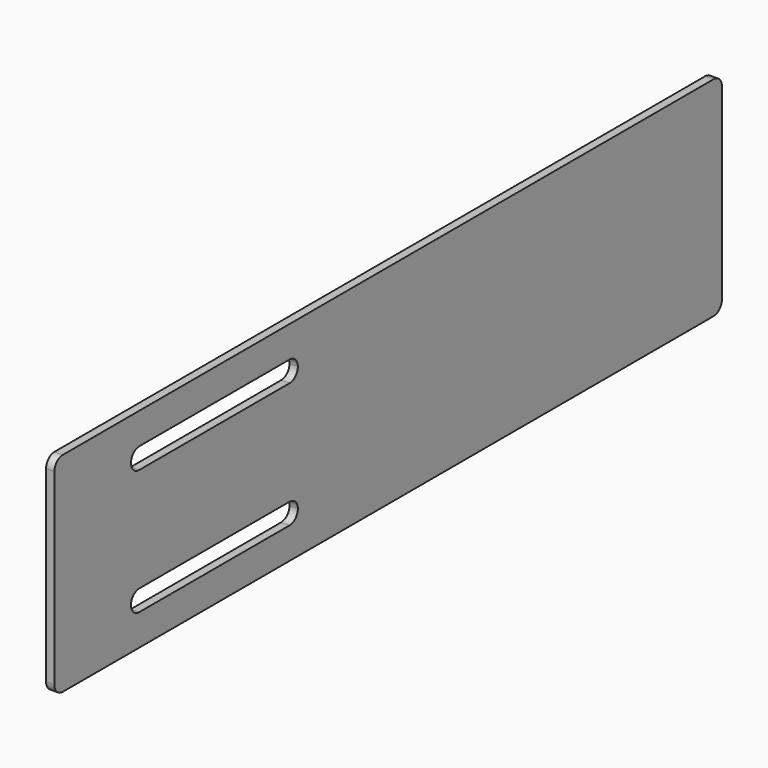
from build123d import *

# Parameters (mm, degrees)
F1_DEPTH = 4
F3_DEPTH = 25


with BuildPart() as f1:
    # F0 (on Right) → F1 (new body)
    with BuildSketch(Plane.YZ):
        with BuildLine():
            Line((205.688918, 31.737779), (-184.311082, 31.737779))
            ThreePointArc((-184.311082, 31.737779), (-187.846616, 30.273313), (-189.311082, 26.737779))
            Line((-189.311082, 26.737779), (-189.311082, -63.262221))
            ThreePointArc((-189.311082, -63.262221), (-187.846616, -66.797755), (-184.311082, -68.262221))
            Line((-184.311082, -68.262221), (205.688918, -68.262221))
            ThreePointArc((205.688918, -68.262221), (209.224452, -66.797755), (210.688918, -63.262221))
            Line((210.688918, -63.262221), (210.688918, 26.737779))
            ThreePointArc((210.688918, 26.737779), (209.224452, 30.273313), (205.688918, 31.737779))
        make_face()
    extrude(amount=F1_DEPTH)

    # F2 (on Right) → F3 (cut)
    with BuildSketch(Plane.YZ):
        with BuildLine():
            Line((-48.437826, 16.737779), (-138.437826, 16.737779))
            ThreePointArc((-138.437826, 16.737779), (-141.973359, 15.273313), (-143.437826, 11.737779))
            ThreePointArc((-143.437826, 11.737779), (-141.973359, 8.202245), (-138.437826, 6.737779))
            Line((-138.437826, 6.737779), (-48.437826, 6.737779))
            ThreePointArc((-48.437826, 6.737779), (-44.902292, 8.202245), (-43.437826, 11.737779))
            ThreePointArc((-43.437826, 11.737779), (-44.902292, 15.273313), (-48.437826, 16.737779))
        make_face()
        with BuildLine():
            Line((-48.437826, -43.262221), (-138.437826, -43.262221))
            ThreePointArc((-138.437826, -43.262221), (-141.973359, -44.726687), (-143.437826, -48.262221))
            ThreePointArc((-143.437826, -48.262221), (-141.973359, -51.797755), (-138.437826, -53.262221))
            Line((-138.437826, -53.262221), (-48.437826, -53.262221))
            ThreePointArc((-48.437826, -53.262221), (-44.902292, -51.797755), (-43.437826, -48.262221))
            ThreePointArc((-43.437826, -48.262221), (-44.902292, -44.726687), (-48.437826, -43.262221))
        make_face()
    extrude(amount=F3_DEPTH, mode=Mode.SUBTRACT)


solid = f1.part
